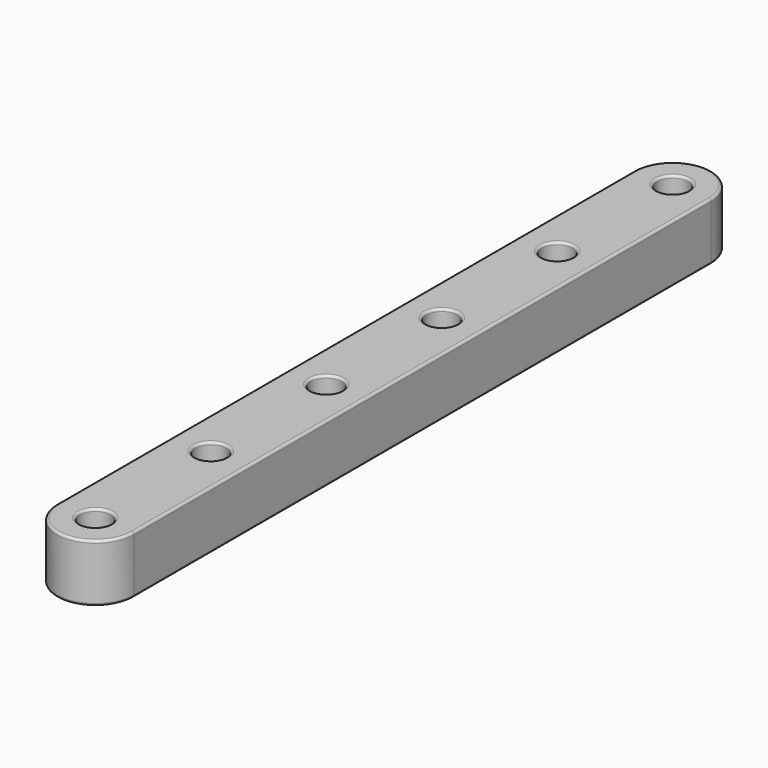
from build123d import *

# Parameters (mm, degrees)
PAD_DEPTH                          = 6
SKETCH001_R                        = 1.6
POCKET_DEPTH                       = 6
SKETCH002_R                        = 3.1
POCKET001_DEPTH                    = 2
SKETCH001_LINEARPATTERN_2_R        = 1.6
POCKET_LINEARPATTERN_2_DEPTH       = 6
SKETCH001_LINEARPATTERN_3_R        = 1.6
POCKET_LINEARPATTERN_3_DEPTH       = 6
SKETCH002_LINEARPATTERN001_2_R     = 3.1
POCKET001_LINEARPATTERN001_2_DEPTH = 2
SKETCH002_LINEARPATTERN001_3_R     = 3.1
POCKET001_LINEARPATTERN001_3_DEPTH = 2
FILLET_R                           = 0.25


with BuildPart() as part:
    # Sketch → Pad (new body)
    with BuildSketch(Plane.XY):
        with BuildLine():
            Line((0, 37.5), (0, -37.5))
            ThreePointArc((0, -37.5), (4, -41.5), (8, -37.5))
            Line((8, 37.5), (8, -37.5))
            ThreePointArc((8, 37.5), (4, 41.5), (0, 37.5))
        make_face()
    extrude(amount=PAD_DEPTH)

    # Sketch001 → Pocket (cut)
    with BuildSketch(Plane.XY):
        with Locations((4, 7.5)):
            Circle(SKETCH001_R)
    pocket = extrude(amount=POCKET_DEPTH, mode=Mode.SUBTRACT)

    # Sketch002 → Pocket001 (cut)
    with BuildSketch(Plane.XY):
        with Locations((4, 7.5)):
            Circle(SKETCH002_R)
    pocket001 = extrude(amount=POCKET001_DEPTH, mode=Mode.SUBTRACT)

    # Sketch001 LinearPattern 2 → Pocket LinearPattern 2 (cut)
    with BuildSketch(Plane(origin=(0, 15, 0), x_dir=(1, 0, 0), z_dir=(0, 0, 1))):
        with Locations((4, 7.5)):
            Circle(SKETCH001_LINEARPATTERN_2_R)
    pocket_linearpattern_2 = extrude(amount=POCKET_LINEARPATTERN_2_DEPTH, mode=Mode.SUBTRACT)

    # Sketch001 LinearPattern 3 → Pocket LinearPattern 3 (cut)
    with BuildSketch(Plane(origin=(0, 30, 0), x_dir=(1, 0, 0), z_dir=(0, 0, 1))):
        with Locations((4, 7.5)):
            Circle(SKETCH001_LINEARPATTERN_3_R)
    pocket_linearpattern_3 = extrude(amount=POCKET_LINEARPATTERN_3_DEPTH, mode=Mode.SUBTRACT)

    # Mirrored: Pocket, Pocket LinearPattern 2, Pocket LinearPattern 3 across XZ
    add(pocket.mirror(Plane.XZ), mode=Mode.SUBTRACT)
    add(pocket_linearpattern_2.mirror(Plane.XZ), mode=Mode.SUBTRACT)
    add(pocket_linearpattern_3.mirror(Plane.XZ), mode=Mode.SUBTRACT)

    # Sketch002 LinearPattern001 2 → Pocket001 LinearPattern001 2 (cut)
    with BuildSketch(Plane(origin=(0, 15, 0), x_dir=(1, 0, 0), z_dir=(0, 0, 1))):
        with Locations((4, 7.5)):
            Circle(SKETCH002_LINEARPATTERN001_2_R)
    pocket001_linearpattern001_2 = extrude(amount=POCKET001_LINEARPATTERN001_2_DEPTH, mode=Mode.SUBTRACT)

    # Sketch002 LinearPattern001 3 → Pocket001 LinearPattern001 3 (cut)
    with BuildSketch(Plane(origin=(0, 30, 0), x_dir=(1, 0, 0), z_dir=(0, 0, 1))):
        with Locations((4, 7.5)):
            Circle(SKETCH002_LINEARPATTERN001_3_R)
    pocket001_linearpattern001_3 = extrude(amount=POCKET001_LINEARPATTERN001_3_DEPTH, mode=Mode.SUBTRACT)

    # Mirrored001: Pocket001, Pocket001 LinearPattern001 2, Pocket001 LinearPattern001 3 across XZ
    add(pocket001.mirror(Plane.XZ), mode=Mode.SUBTRACT)
    add(pocket001_linearpattern001_2.mirror(Plane.XZ), mode=Mode.SUBTRACT)
    add(pocket001_linearpattern001_3.mirror(Plane.XZ), mode=Mode.SUBTRACT)

    # Fillet
    fillet_edges = [part.edges().sort_by_distance(p)[0] for p in [
        (4, -41.5, 0),
        (8, 0, 0),
        (0, 0, 0),
        (4, 41.5, 0),
        (4, 41.5, 6),
        (8, 0, 6),
        (4, -41.5, 6),
        (0, 0, 6),
        (2.4, -37.5, 6),
        (2.4, -22.5, 6),
        (2.4, -7.5, 6),
        (2.4, 7.5, 6),
        (2.4, 37.5, 6),
        (2.4, 22.5, 6),
        (0.9, 37.5, 0),
        (2.4, 37.5, 2),
        (0.9, 22.5, 0),
        (2.4, 22.5, 2),
        (0.9, 7.5, 0),
        (2.4, 7.5, 2),
        (0.9, -7.5, 0),
        (2.4, -7.5, 2),
        (0.9, -22.5, 0),
        (2.4, -22.5, 2),
        (0.9, -37.5, 0),
        (2.4, -37.5, 2),
    ]]
    fillet(fillet_edges, radius=FILLET_R)


solid = part.part
